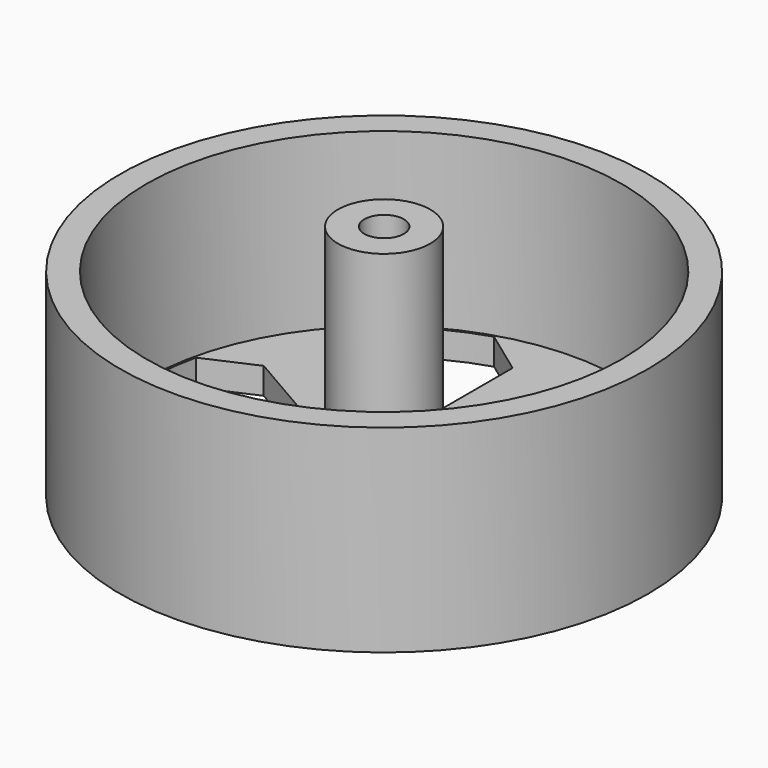
from build123d import *

# Parameters (mm, degrees)
F0_R     = 20
F1_DEPTH = 15
F2_R     = 18
F3_DEPTH = 13
F4_R     = 3.5
F4_R_2   = 1.5
F5_DEPTH = 16
F7_DEPTH = 2


with BuildPart() as f1:
    # F0 (on Top) → F1 (new body)
    with BuildSketch(Plane.XY):
        Circle(F0_R)
    extrude(amount=F1_DEPTH)

    # F2 (on face) → F3 (cut)
    with BuildSketch(Plane.XY.offset(15)):
        Circle(F2_R)
    extrude(amount=-F3_DEPTH, mode=Mode.SUBTRACT)

    # F4 (on face) → F5 (join)
    with BuildSketch(Plane.XY.offset(2)):
        Circle(F4_R)
        Circle(F4_R_2, mode=Mode.SUBTRACT)
    extrude(amount=F5_DEPTH)

    # F6 (on Top) → F7 (cut)
    with BuildSketch(Plane.XY):
        with BuildLine():
            Line((-13.61187, 5.615484), (-17.40644, 3.928479))
            ThreePointArc((-17.40644, 3.928479), (-17.844245, 0), (-17.40644, -3.928479))
            Line((-17.40644, -3.928479), (-13.61187, -5.615484))
            Line((-13.61187, -5.615484), (-3.885566, 0))
            Line((-3.885566, 0), (-13.61187, 5.615484))
        make_face()
        with BuildLine():
            Line((-11.669087, -8.980484), (-12.105382, -13.110179))
            ThreePointArc((-12.105382, -13.110179), (-8.922123, -15.45357), (-5.301057, -17.038658))
            Line((-5.301057, -17.038658), (-1.942783, -14.595968))
            Line((-1.942783, -14.595968), (-1.942783, -3.364999))
            Line((-1.942783, -3.364999), (-11.669087, -8.980484))
        make_face()
        with BuildLine():
            Line((1.942783, -14.595968), (5.301057, -17.038658))
            ThreePointArc((5.301057, -17.038658), (8.922123, -15.45357), (12.105382, -13.110179))
            Line((12.105382, -13.110179), (11.669087, -8.980484))
            Line((11.669087, -8.980484), (1.942783, -3.364999))
            Line((1.942783, -3.364999), (1.942783, -14.595968))
        make_face()
        with BuildLine():
            ThreePointArc((17.844245, 0), (17.734456, 1.976399), (17.40644, 3.928479))
            Line((17.40644, 3.928479), (13.61187, 5.615484))
            Line((13.61187, 5.615484), (3.885566, 0))
            Line((3.885566, 0), (13.61187, -5.615484))
            Line((13.61187, -5.615484), (17.40644, -3.928479))
            ThreePointArc((17.40644, -3.928479), (17.734456, -1.976399), (17.844245, 0))
        make_face()
        with BuildLine():
            ThreePointArc((12.105382, 13.110179), (8.922123, 15.45357), (5.301057, 17.038658))
            Line((5.301057, 17.038658), (1.942783, 14.595968))
            Line((1.942783, 14.595968), (1.942783, 3.364999))
            Line((1.942783, 3.364999), (11.669087, 8.980484))
            Line((11.669087, 8.980484), (12.105382, 13.110179))
        make_face()
        with BuildLine():
            Line((-11.669087, 8.980484), (-1.942783, 3.364999))
            Line((-1.942783, 3.364999), (-1.942783, 14.595968))
            Line((-1.942783, 14.595968), (-5.301057, 17.038658))
            ThreePointArc((-5.301057, 17.038658), (-8.922123, 15.45357), (-12.105382, 13.110179))
            Line((-12.105382, 13.110179), (-11.669087, 8.980484))
        make_face()
    extrude(amount=F7_DEPTH, mode=Mode.SUBTRACT)


solid = f1.part
